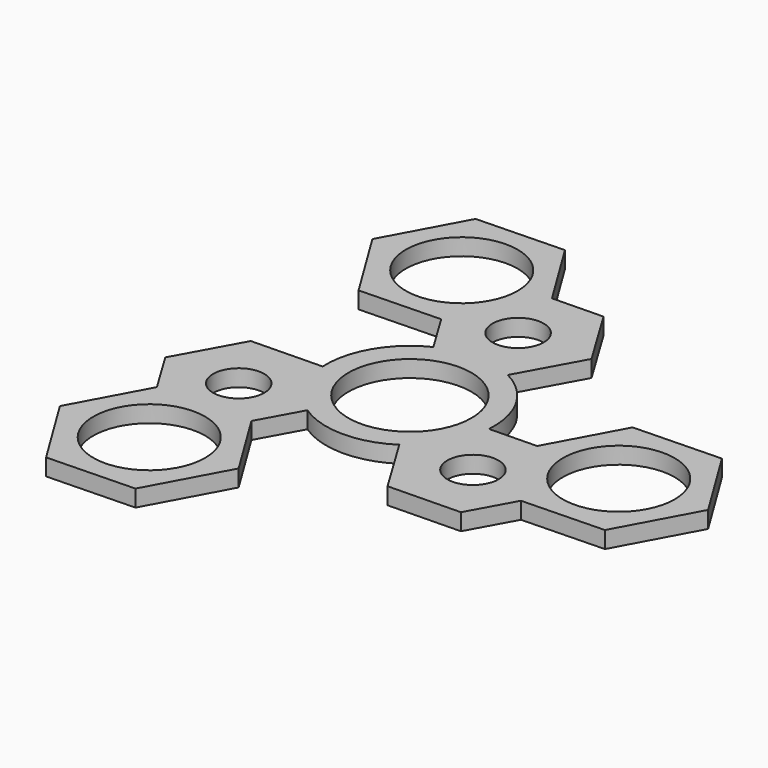
from build123d import *

# Parameters (mm, degrees)
F0_R     = 10
F0_R_2   = 4.58
F0_R_3   = 11
F1_DEPTH = 3


with BuildPart() as f1:
    # F0 (on Top) → F1 (new body)
    with BuildSketch(Plane.XY):
        with BuildLine():
            Line((-10.977667, 20.721382), (-6.590549, 13.474593))
            ThreePointArc((-6.590549, 13.474593), (-12.927762, 7.607429), (-14.979629, -0.781476))
            Line((-14.979629, -0.781476), (-27.635152, -1.044408))
            Line((-27.635152, -1.044408), (-33.859359, -12.361615))
            Line((-33.859359, -12.361615), (-29.160745, -20.122942))
            Line((-29.160745, -20.122942), (-36.160002, -33.056272))
            Line((-36.160002, -33.056272), (-27.966558, -46.385655))
            Line((-27.966558, -46.385655), (-12.326252, -45.954617))
            Line((-12.326252, -45.954617), (-4.879389, -32.194194))
            Line((-4.879389, -32.194194), (-12.45641, -19.867629))
            Line((-12.45641, -19.867629), (-8.374066, -12.444879))
            ThreePointArc((-8.374066, -12.444879), (-0.124346, -14.999485), (8.166593, -12.582001))
            Line((8.166593, -12.582001), (14.72206, -23.41054))
            Line((14.72206, -23.41054), (27.635152, -23.142257))
            Line((27.635152, -23.142257), (32.007352, -15.192475))
            Line((32.007352, -15.192475), (46.707572, -14.787345))
            Line((46.707572, -14.787345), (54.154435, -1.026922))
            Line((54.154435, -1.026922), (45.960991, 12.302461))
            Line((45.960991, 12.302461), (30.320685, 11.871423))
            Line((30.320685, 11.871423), (23.434076, -0.853753))
            Line((23.434076, -0.853753), (14.964615, -1.029714))
            ThreePointArc((14.964615, -1.029714), (13.052108, 7.392056), (6.813036, 13.363478))
            Line((6.813036, 13.363478), (12.913093, 24.454948))
            Line((12.913093, 24.454948), (6.224207, 35.503873))
            Line((6.224207, 35.503873), (-2.846607, 35.315417))
            Line((-2.846607, 35.315417), (-10.54757, 47.843616))
            Line((-10.54757, 47.843616), (-26.187877, 47.412578))
            Line((-26.187877, 47.412578), (-33.63474, 33.652155))
            Line((-33.63474, 33.652155), (-25.441296, 20.322772))
            Line((-25.441296, 20.322772), (-10.977667, 20.721382))
        make_face()
        with Locations((-20.519695, -32.625233)):
            Circle(F0_R, mode=Mode.SUBTRACT)
        with Locations((-20.946266, -12.093333)):
            Circle(F0_R_2, mode=Mode.SUBTRACT)
        Circle(F0_R_3, mode=Mode.SUBTRACT)
        with Locations((20.946266, -12.093333)):
            Circle(F0_R_2, mode=Mode.SUBTRACT)
        with Locations((38.514128, -1.457961)):
            Circle(F0_R, mode=Mode.SUBTRACT)
        with Locations((0, 24.186665)):
            Circle(F0_R_2, mode=Mode.SUBTRACT)
        with Locations((-17.994433, 34.083194)):
            Circle(F0_R, mode=Mode.SUBTRACT)
    extrude(amount=F1_DEPTH)


solid = f1.part
